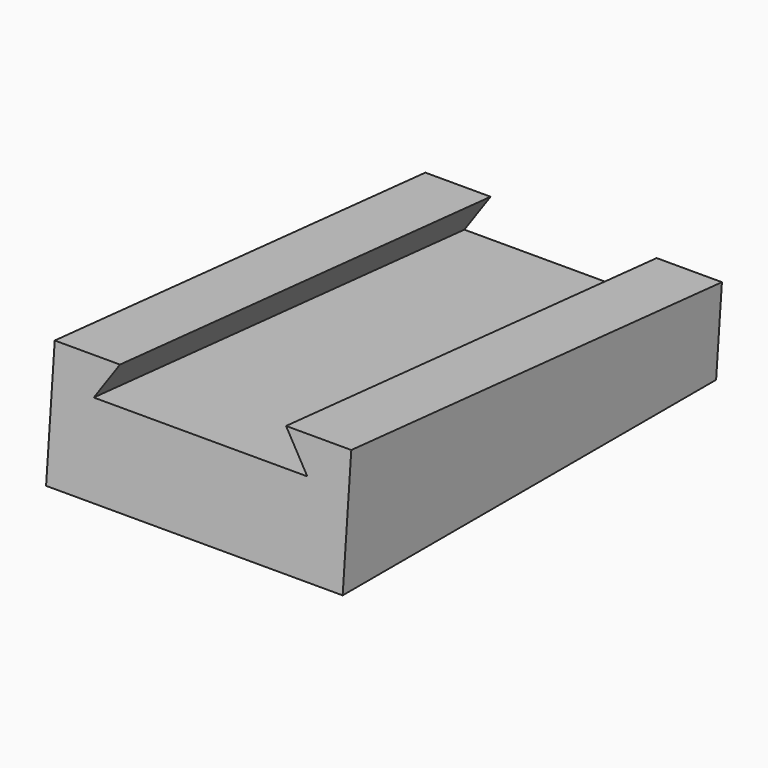
from build123d import *

# Parameters (mm, degrees)
F2_DEPTH      = 12.5
F3_W          = 25
F3_H          = 7.5488379344
F4_DEPTH      = 12.5
F7_DEPTH      = 49.8707171405
F7_DEPTH_BACK = 0.7841883029
F8_DEPTH      = 7.5488379344
F11_DEPTH     = 25


with BuildPart() as f2:
    # F1 (on Right) → F2 (new body, symmetric)
    with BuildSketch(Plane.YZ):
        Polygon((-20, 0), (20, 0), (20, 7), (-20, 10.5), (-20, 7), align=None)
    extrude(amount=F2_DEPTH, both=True)


with BuildPart() as f4:
    # F3 (on face) → F4 (new body, symmetric)
    with BuildSketch(Plane(origin=(0, 0.7598077221, 8.6835168243), x_dir=(1, 0, 0), z_dir=(0, 0.0871669503, 0.9961937175))):
        with Locations((0, -24.6135462951)):
            Rectangle(F3_W, F3_H)
    extrude(amount=F4_DEPTH, both=True)


with BuildPart() as f7_tool:
    # F6 (on offset) → F7 (new body, two sides)
    with BuildSketch(Plane(origin=(0, 19.2373700353, -1.6832698781), x_dir=(-1, 0, 0), z_dir=(0, 0.9961937175, -0.0871669503))) as f7_sk:
        Polygon((-7, 5.7166950281), (7, 5.7166950281), (9, 5.7166950281), (7, 8.7166950281), (-7, 8.7166950281), (-9, 5.7166950281), align=None)
    extrude(amount=-F7_DEPTH)
    extrude(f7_sk.sketch, amount=F7_DEPTH_BACK)


with BuildPart() as f2_1:
    add(f2.part)

    # F7: cut by f7_tool
    add(f7_tool.part, mode=Mode.SUBTRACT)

    # F10 (on face) → F11 (cut, through all)
    with BuildSketch(Plane.YZ.offset(12.5)):
        Polygon((-19.9651202156, 0), (-19.0536159684, 10.4171913972), (-20, 10.5), (-20, 0), align=None)
        Polygon((20, 0), (20, 7), (19.3875, 0), align=None)
    extrude(amount=-F11_DEPTH, mode=Mode.SUBTRACT)


with BuildPart() as f4_1:
    add(f4.part)

    # F7: cut by f7_tool
    add(f7_tool.part, mode=Mode.SUBTRACT)

    # F8 (cut, through all): a face of the model
    f8_faces = [f4_1.faces().sort_by_distance(p)[0] for p in [
        (0, -27.5087747318, 11.2874970991),
    ]]
    extrude(f8_faces, amount=-F8_DEPTH, mode=Mode.SUBTRACT)


solid = f2_1.part
